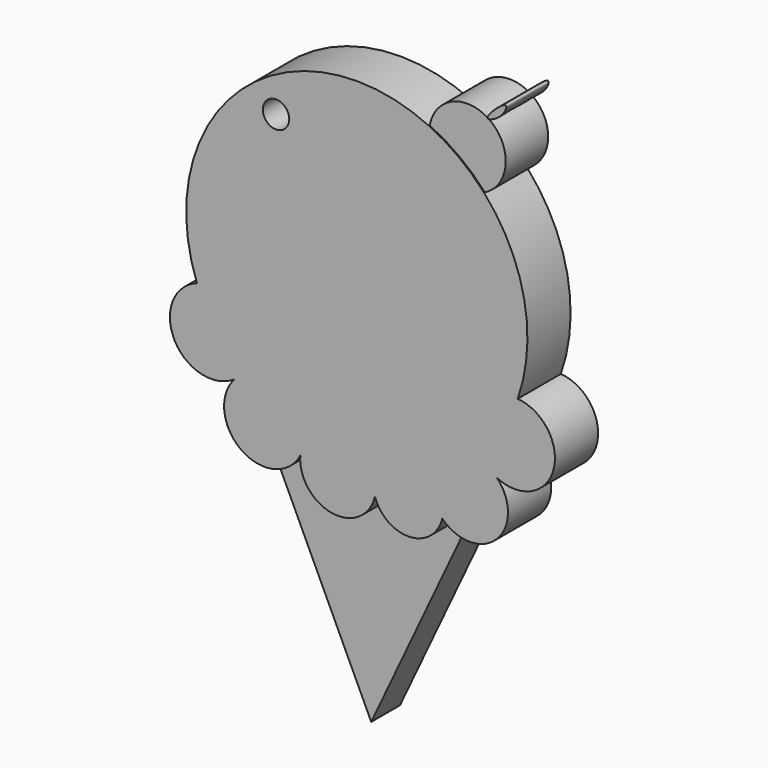
from build123d import *

# Parameters (mm, degrees)
F0_R     = 2.9434235735
F1_DEPTH = 12
F2_DEPTH = 8
F3_DEPTH = 11.8
F4_DEPTH = 11.8


with BuildPart() as f1:
    # F0 (on Front) → F1 (new body)
    with BuildSketch(Plane.XZ):
        with BuildLine():
            ThreePointArc((31.1593048641, -1.6902042533), (43.7415417741, 4.0051920343), (35.7643310919, 15.2796913254))
            ThreePointArc((35.7643310919, 15.2796913254), (37.2238986373, 35.2565674313), (28.3067829054, 53.1923128408))
            ThreePointArc((28.3067829054, 53.1923128408), (22.6372348296, 58.3776700022), (16.0391949523, 62.3143658315))
            ThreePointArc((16.0391949523, 62.3143658315), (-25.7208254671, 55.8212382649), (-35.5617688497, 14.7211671656))
            ThreePointArc((-35.5617688497, 14.7211671656), (-40.7180864689, 2.2992303886), (-27.9065539342, -1.7942716323))
            ThreePointArc((-27.9065539342, -1.7942716323), (-27.5446454608, -1.5766701921), (-27.1931813438, -1.342573835))
            ThreePointArc((-27.1931813438, -1.342573835), (-27.4960472706, -1.6953091832), (-27.7802552335, -2.0632437281))
            ThreePointArc((-27.7802552335, -2.0632437281), (-28.6625074121, -11.1856876732), (-21.0796275499, -16.3332390751))
            ThreePointArc((-21.0796275499, -16.3332390751), (-16.1178400261, -15.1902033764), (-12.574737056, -11.5333895472))
            ThreePointArc((-12.574737056, -11.5333895472), (-5.4849315522, -20.5237333781), (4.0305104731, -14.1560032219))
            ThreePointArc((4.0305104731, -14.1560032219), (11.7358749898, -19.5519005786), (19.0047474963, -13.5809841412))
            ThreePointArc((19.0047474963, -13.5809841412), (20.1948345196, -14.6021663277), (21.5522292089, -15.3874050418))
            ThreePointArc((21.5522292089, -15.3874050418), (32.0731520497, -12.5489196499), (31.1593048641, -1.6902042533))
        make_face()
        with Locations((-17.9679151624, 53.4826219082)):
            Circle(F0_R, mode=Mode.SUBTRACT)
    extrude(amount=F1_DEPTH)

    # F0 (on Front) → F2 (join)
    with BuildSketch(Plane.XZ):
        with BuildLine():
            Line((0, -61.2254792136), (21.5522292089, -15.3874050418))
            ThreePointArc((21.5522292089, -15.3874050418), (20.1948345196, -14.6021663277), (19.0047474963, -13.5809841412))
            ThreePointArc((19.0047474963, -13.5809841412), (11.7358749898, -19.5519005786), (4.0305104731, -14.1560032219))
            ThreePointArc((4.0305104731, -14.1560032219), (-5.4849315522, -20.5237333781), (-12.574737056, -11.5333895472))
            ThreePointArc((-12.574737056, -11.5333895472), (-16.1178400261, -15.1902033764), (-21.0796275499, -16.3332390751))
            Line((-21.0796275499, -16.3332390751), (0, -61.2254792136))
        make_face()
    extrude(amount=F2_DEPTH)

    # F0 (on Front) → F3 (join)
    with BuildSketch(Plane.XZ):
        with BuildLine():
            ThreePointArc((16.0391949523, 62.3143658315), (22.6372348296, 58.3776700022), (28.3067829054, 53.1923128408))
            ThreePointArc((28.3067829054, 53.1923128408), (32.9332392438, 60.249167579), (29.2235228949, 67.8281715806))
            add(Edge.make_bspline(
                [(29.2235228949, 67.8281715806), (29.0071843018, 67.815826003), (28.877678793, 67.8830963022), (28.8862232988, 68.0464194359)],
                knots=[0.9141072162, 0.9141072162, 0.9141072162, 0.9141072162, 1, 1, 1, 1], degree=3))
            ThreePointArc((28.8862232988, 68.0464194359), (20.9516313256, 68.5671124151), (16.0391949523, 62.3143658315))
        make_face()
    extrude(amount=F3_DEPTH)


with BuildPart() as f4:
    # F0 (on Front) → F4 (new body)
    with BuildSketch(Plane.XZ):
        with BuildLine():
            ThreePointArc((28.8862232988, 68.0464194359), (29.0561589553, 67.939282788), (29.2235228949, 67.8281715806))
            add(Edge.make_bspline(
                [(28.8862232988, 68.0464194359), (28.9265366205, 68.8169845438), (34.2655144887, 73.8050920902), (32.3697336449, 69.1362739393), (29.7755038445, 67.8596709242), (29.2235228949, 67.8281715806)],
                knots=[0, 0, 0, 0, 0.4052456054, 0.694954546, 0.9141072162, 0.9141072162, 0.9141072162, 0.9141072162], degree=3))
        make_face()
    extrude(amount=F4_DEPTH)


solid = Compound([f1.part, f4.part])
